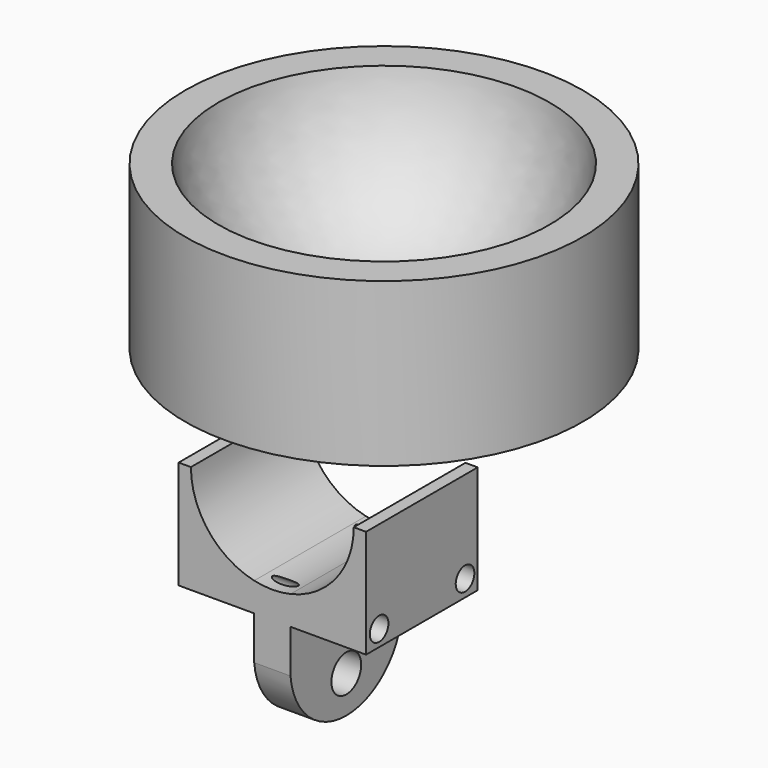
from build123d import *

# Parameters (mm, degrees)
F0_W          = 7.8
F0_H          = 23.0137296021
F1_DEPTH      = 30
F3_DEPTH      = 24.0380157301
F4_R          = 4
F4_R_2        = 2.5
F5_DEPTH      = 24.0380157301
F5_DEPTH_BACK = 16.2380157301


with BuildPart() as f1:
    # F0 (on Front) → F1 (new body)
    with BuildSketch(Plane.XZ):
        with BuildLine():
            Line((20.1370157301, 0), (20, 0))
            ThreePointArc((20, 0), (15.4596248337, -12.6885775404), (3.9, -19.6160648449))
            Line((3.9, -19.6160648449), (3.9, -23.2534594834))
            Line((3.9, -23.2534594834), (20.1370157301, -23.2534594834))
            Line((20.1370157301, -23.2534594834), (20.1370157301, 0))
        make_face()
        with BuildLine():
            Line((20, 0), (17.5, 0))
            ThreePointArc((17.5, 0), (13.6839321834, -10.9087121146), (3.9, -17.0598944897))
            Line((3.9, -17.0598944897), (3.9, -19.6160648449))
            ThreePointArc((3.9, -19.6160648449), (15.4596248337, -12.6885775404), (20, 0))
        make_face()
        with BuildLine():
            Line((3.9, -19.6160648449), (3.9, -17.0598944897))
            ThreePointArc((3.9, -17.0598944897), (0, -17.5), (-3.9, -17.0598944897))
            Line((-3.9, -17.0598944897), (-3.9, -19.6160648449))
            ThreePointArc((-3.9, -19.6160648449), (0, -20), (3.9, -19.6160648449))
        make_face()
        with BuildLine():
            Line((-3.9, -19.6160648449), (-3.9, -17.0598944897))
            ThreePointArc((-3.9, -17.0598944897), (-13.6839321834, -10.9087121146), (-17.5, 0))
            Line((-17.5, 0), (-20, 0))
            ThreePointArc((-20, 0), (-15.4596248337, -12.6885775404), (-3.9, -19.6160648449))
        make_face()
        with BuildLine():
            Line((-3.9, -23.2534594834), (-3.9, -19.6160648449))
            ThreePointArc((-3.9, -19.6160648449), (-15.4596248337, -12.6885775404), (-20, 0))
            Line((-20, 0), (-20.1370157301, 0))
            Line((-20.1370157301, 0), (-20.1370157301, -23.2534594834))
            Line((-20.1370157301, -23.2534594834), (-3.9, -23.2534594834))
        make_face()
        with BuildLine():
            Line((3.9, -23.2534594834), (3.9, -19.6160648449))
            ThreePointArc((3.9, -19.6160648449), (0, -20), (-3.9, -19.6160648449))
            Line((-3.9, -19.6160648449), (-3.9, -23.2534594834))
            Line((-3.9, -23.2534594834), (3.9, -23.2534594834))
        make_face()
        with Locations((0, -34.7603242844)):
            Rectangle(F0_W, F0_H)
    extrude(amount=F1_DEPTH)

    # F2 (on face) → F3 (cut, through all)
    with BuildSketch(Plane.YZ.offset(3.9)):
        with BuildLine():
            Line((0, -46.2671890855), (0, -32.5605841978))
            ThreePointArc((0, -32.5605841978), (-15.0000202292, -46.1559676511), (-30, -32.5605395594))
            Line((-30, -32.5605395594), (-30, -46.2671890855))
            Line((-30, -46.2671890855), (0, -46.2671890855))
        make_face()
    extrude(amount=-F3_DEPTH, mode=Mode.SUBTRACT)

    # F4 (on face) → F5 (cut, two sides)
    with BuildSketch(Plane.YZ.offset(3.9)) as f5_sk:
        with Locations((-15.0000202292, -38.1553545594)):
            Circle(F4_R)
        with Locations((-26.4832824469, -19.7725053877)):
            Circle(F4_R_2)
        with Locations((-3.4035816789, -19.6593701839)):
            Circle(F4_R_2)
    extrude(amount=-F5_DEPTH, mode=Mode.SUBTRACT)
    extrude(f5_sk.sketch, amount=F5_DEPTH_BACK, mode=Mode.SUBTRACT)


with BuildPart() as f7:
    # F6 (on Front) → F7 (revolve)
    with BuildSketch(Plane.XZ):
        with BuildLine():
            ThreePointArc((0, 19.9638102204), (-23.5296044776, 28.8473619788), (-35.5943925679, 50.915453583))
            Line((-35.5943925679, 50.915453583), (-42.7132695913, 50.915453583))
            Line((-42.7132695913, 50.915453583), (-42.7132695913, 15.9400962293))
            Line((-42.7132695913, 15.9400962293), (0, 13.1544489413))
            Line((0, 13.1544489413), (0, 19.9638102204))
        make_face()
    revolve(axis=Axis((0, 0, 16.5591295809), (0, 0, 1)))


solid = Compound([f1.part, f7.part])
